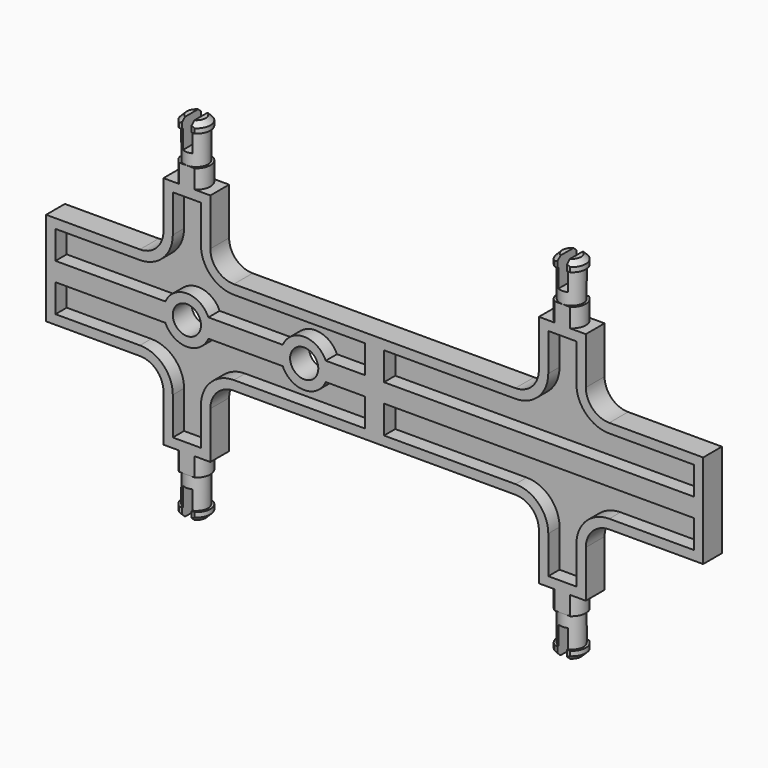
from build123d import *

# Parameters (mm, degrees)
F1_DEPTH  = 2.5
F2_T      = -2
F5_SIZE   = 1
F6_W      = 84.8522958381
F6_H      = 5
F7_DEPTH  = 37.501
F8_W      = 2
F8_H      = 7.4166591092
F9_DEPTH  = 6
F12_R     = 5
F13_DEPTH = 5
F15_D     = 6


with BuildPart() as f1:
    # F0 (on Front) → F1 (new body, symmetric)
    with BuildSketch(Plane.XZ):
        with BuildLine():
            Line((0, 10), (0, 0))
            Line((0, 0), (70, 0))
            Line((70, 0), (70, 10))
            Line((70, 10), (50, 10))
            ThreePointArc((50, 10), (46.4644660941, 11.4644660941), (45, 15))
            Line((45, 15), (45, 25))
            Line((45, 25), (35, 25))
            Line((35, 25), (35, 15))
            ThreePointArc((35, 15), (33.5355339059, 11.4644660941), (30, 10))
            Line((30, 10), (0, 10))
        make_face()
    extrude(amount=F1_DEPTH, both=True)

    # F2
    f2_openings = [f1.faces().sort_by_distance(p)[0] for p in [
        (35.933685, -2.5, 7.254637),
    ]]
    offset(amount=F2_T, openings=f2_openings)

    # F3 (on Front) → F4 (revolve)
    with BuildSketch(Plane.XZ):
        Polygon((37, 25), (40, 25), (40, 37.5), (37, 37.5), (37, 35.5), (37.5, 35.5), (37.5, 29), (37, 29), align=None)
    revolve(axis=Axis((40, 0, 31.25), (0, 0, 1)))

    # F5
    f5_edges = [f1.edges().sort_by_distance(p)[0] for p in [
        (43, 0, 37.5),
    ]]
    chamfer(f5_edges, length=F5_SIZE)

    # F6 (on face) → F7 (intersect, through all)
    with BuildSketch(Plane.XY.offset(37.5)):
        with Locations((31.5152438125, 0)):
            Rectangle(F6_W, F6_H)
    extrude(amount=-F7_DEPTH, mode=Mode.INTERSECT)

    # F8 (on face) → F9 (cut)
    with BuildSketch(Plane.XY.offset(37.5)):
        with Locations((40, 0.1745994668)):
            Rectangle(F8_W, F8_H)
    extrude(amount=-F9_DEPTH, mode=Mode.SUBTRACT)

    # F10: F1 across plane


with BuildPart() as f1_1:
    add(f1.part)
    add(f1.part.mirror(Plane.XY))

    # F11: F1 across plane


with BuildPart() as f1_2:
    add(f1_1.part)
    add(f1_1.part.mirror(Plane.YZ))

    # F12 (on face) → F13 (join, through all)
    with BuildSketch(Plane.XZ.offset(2.5)):
        with Locations((-40, 0)):
            Circle(F12_R)
        with Locations((-15, 0)):
            Circle(F12_R)
    extrude(amount=-F13_DEPTH)

    # F15 (through all)
    with Locations(Plane.XZ.offset(2.5)):
        with Locations((-40, 0), (-15, 0)):
            Hole(F15_D / 2)


solid = f1_2.part
